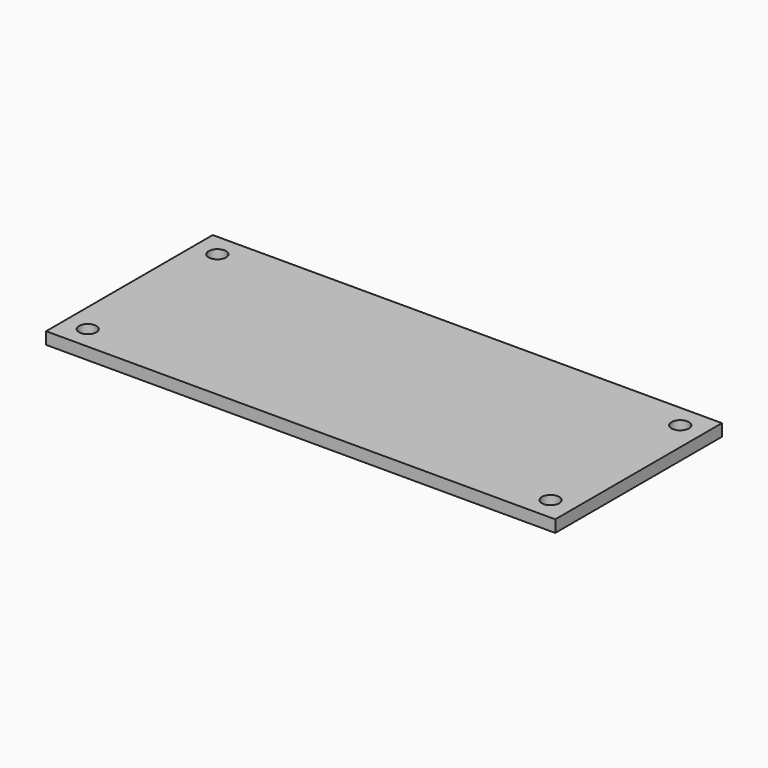
from build123d import *

# Parameters (mm, degrees)
F0_W     = 139.7
F0_H     = 57.15
F1_DEPTH = 1.651
F2_R     = 2.38125
F3_DEPTH = 1.651
F4_R     = 2.38125
F5_DEPTH = 1.651
F6_R     = 2.38125
F7_DEPTH = 1.651
F8_R     = 2.38125
F9_DEPTH = 1.651


with BuildPart() as f1:
    # F0 (on Top) → F1 (new body, symmetric)
    with BuildSketch(Plane.XY):
        Rectangle(F0_W, F0_H)
    extrude(amount=F1_DEPTH, both=True)

    # F2 (on Top) → F3 (cut, symmetric)
    with BuildSketch(Plane.XY):
        with Locations((-63.5, 22.225)):
            Circle(F2_R)
    extrude(amount=F3_DEPTH, both=True, mode=Mode.SUBTRACT)

    # F4 (on Top) → F5 (cut, symmetric)
    with BuildSketch(Plane.XY):
        with Locations((63.5, 22.225)):
            Circle(F4_R)
    extrude(amount=F5_DEPTH, both=True, mode=Mode.SUBTRACT)

    # F6 (on Top) → F7 (cut, symmetric)
    with BuildSketch(Plane.XY):
        with Locations((-63.5, -22.225)):
            Circle(F6_R)
    extrude(amount=F7_DEPTH, both=True, mode=Mode.SUBTRACT)

    # F8 (on Top) → F9 (cut, symmetric)
    with BuildSketch(Plane.XY):
        with Locations((63.5, -22.225)):
            Circle(F8_R)
    extrude(amount=F9_DEPTH, both=True, mode=Mode.SUBTRACT)


solid = f1.part
